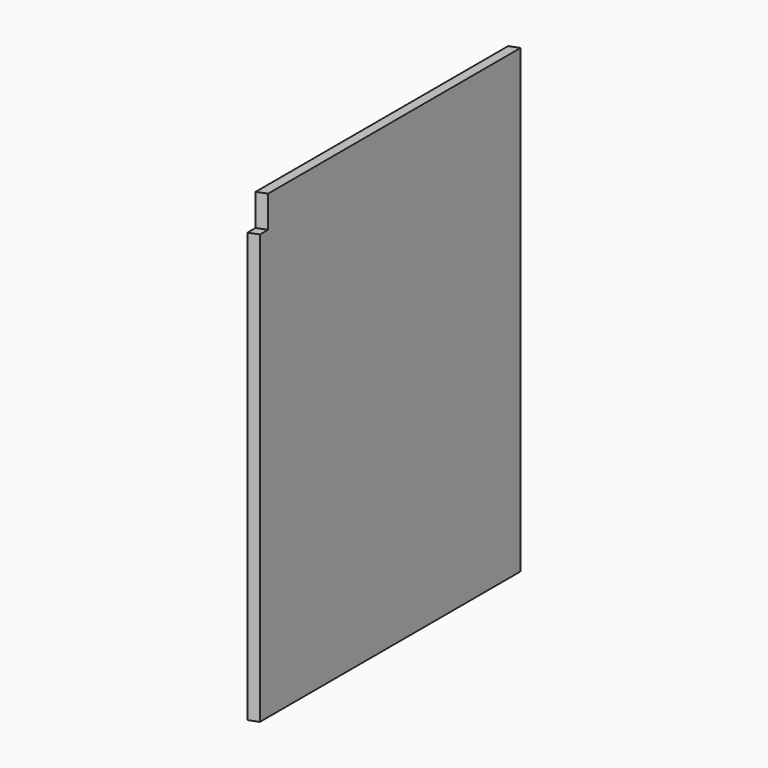
from build123d import *

# Parameters (mm, degrees)
F0_W     = 622
F0_H     = 870
F1_DEPTH = 18
F3_DEPTH = 870
F5_DEPTH = 60


with BuildPart() as f1:
    # F0 (on Right) → F1 (new body)
    with BuildSketch(Plane.YZ):
        Rectangle(F0_W, F0_H)
    extrude(amount=F1_DEPTH)

    # F2 (on face) → F3 (cut)
    with BuildSketch(Plane.XY.offset(435)):
        Polygon((0, 304.090447), (18, 311), (0, 311), align=None)
        Polygon((18, -304.090447), (0, -311), (18, -311), align=None)
    extrude(amount=-F3_DEPTH, mode=Mode.SUBTRACT)

    # F4 (on face) → F5 (cut)
    with BuildSketch(Plane.XY.offset(435)):
        Polygon((0, -291.71939), (0, -311), (18, -304.090447), (18, -284.809837), align=None)
    extrude(amount=-F5_DEPTH, mode=Mode.SUBTRACT)


solid = f1.part
